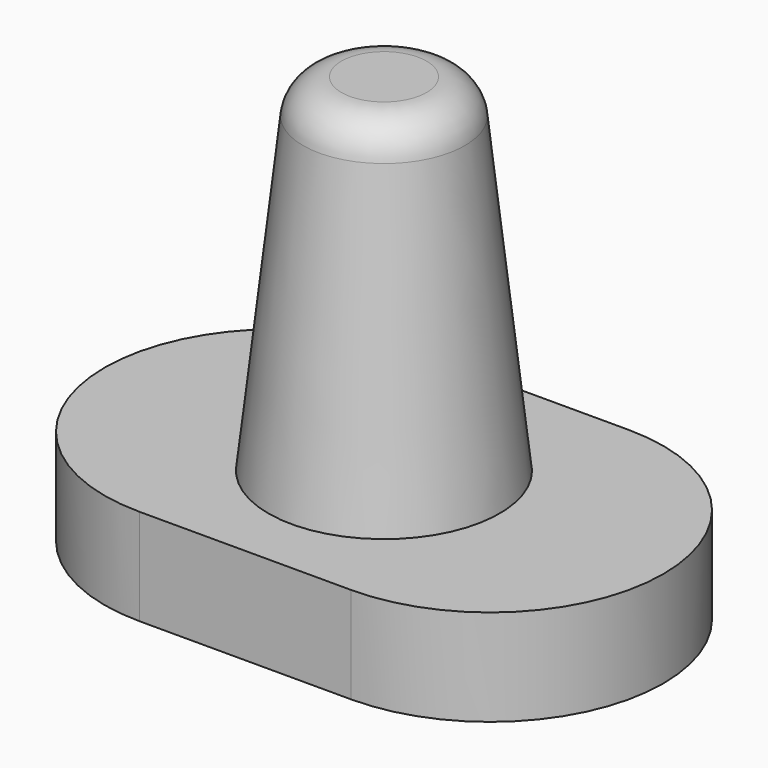
from build123d import *

# Parameters (mm, degrees)
F1_DEPTH = 1.25


with BuildPart() as f1:
    # F0 (on Top) → F1 (new body)
    with BuildSketch(Plane.XY):
        with BuildLine():
            Line((-1.375, -2.25), (1.375, -2.25))
            ThreePointArc((1.375, -2.25), (3.625, 0), (1.375, 2.25))
            Line((1.375, 2.25), (-1.375, 2.25))
            ThreePointArc((-1.375, 2.25), (-3.625, 0), (-1.375, -2.25))
        make_face()
    extrude(amount=F1_DEPTH)

    # F2 (on Front) → F3 (revolve)
    with BuildSketch(Plane.XZ):
        with BuildLine():
            Line((-1.5, 1.25), (0, 1.25))
            Line((0, 1.25), (0, 5.75))
            Line((0, 5.75), (-0.552479, 5.75))
            ThreePointArc((-0.552479, 5.75), (-0.885939, 5.622564), (-1.04942, 5.305216))
            Line((-1.04942, 5.305216), (-1.5, 1.25))
        make_face()
    revolve(axis=Axis((0, 0, 3.5), (0, 0, 1)))


solid = f1.part
